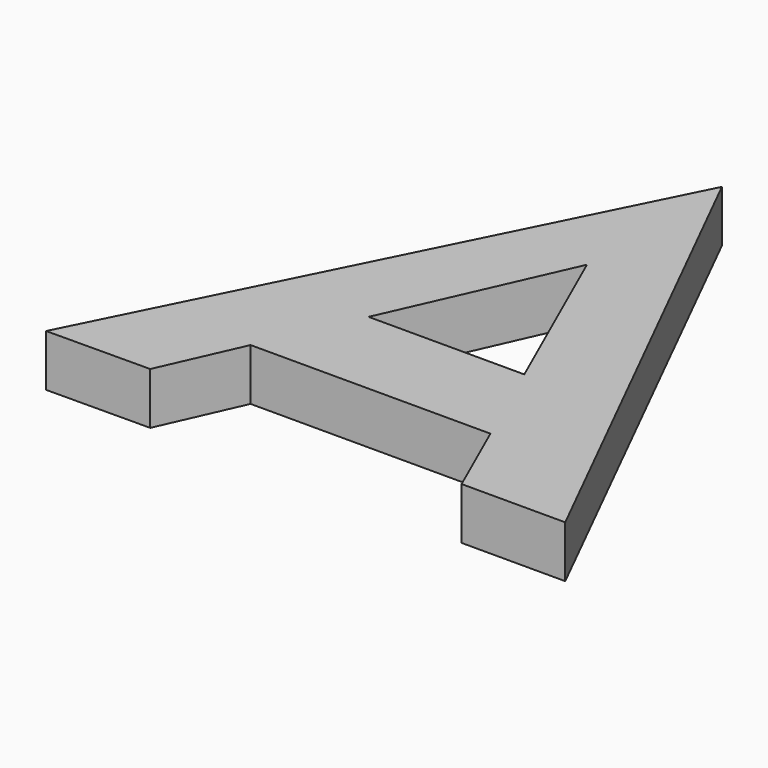
from build123d import *

# Parameters (mm, degrees)
F1_DEPTH = 25


with BuildPart() as f1:
    # F0 (on Top) → F1 (new body)
    with BuildSketch(Plane.XY):
        Polygon((124.897385, -125.700961), (0, 124.899604), (-125.303407, -125.992487), (-75.303407, -125.700961), (-57.998757, -86.816044), (-37.651704, -41.094607), (0, 43.511748), (37.448692, -41.094607), (57.686038, -86.816044), (74.897385, -125.700961), align=None)
        Polygon((-37.651704, -41.094607), (-57.998757, -86.816044), (57.686038, -86.816044), (37.448692, -41.094607), align=None)
    extrude(amount=F1_DEPTH)


solid = f1.part
